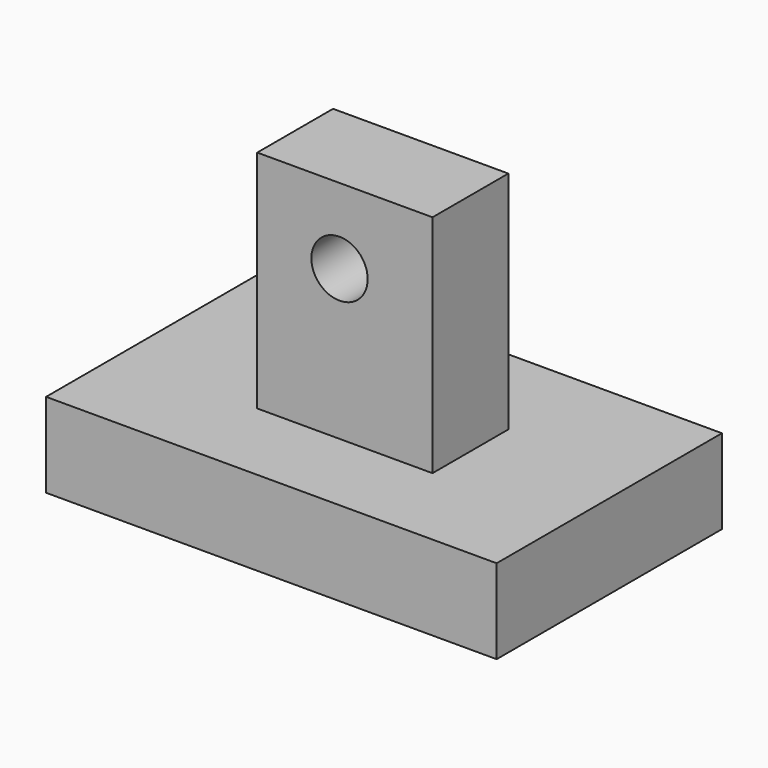
from build123d import *

# Parameters (mm, degrees)
F0_W     = 80
F0_H     = 50
F1_DEPTH = 15
F2_W     = 31.118957
F2_H     = 16.829639
F3_DEPTH = 40
F4_R     = 5
F5_DEPTH = 34.441523


with BuildPart() as f1:
    # F0 (on Top) → F1 (new body)
    with BuildSketch(Plane.XY):
        with Locations((40, 25)):
            Rectangle(F0_W, F0_H)
    extrude(amount=F1_DEPTH)

    # F2 (on face) → F3 (join)
    with BuildSketch(Plane.XY.offset(15)):
        with Locations((40.604838, 23.974297)):
            Rectangle(F2_W, F2_H)
    extrude(amount=F3_DEPTH)

    # F4 (on face) → F5 (cut, through all)
    with BuildSketch(Plane.XZ.offset(-15.559477)):
        with Locations((39.652213, 41.597784)):
            Circle(F4_R)
    extrude(amount=-F5_DEPTH, mode=Mode.SUBTRACT)


solid = f1.part
